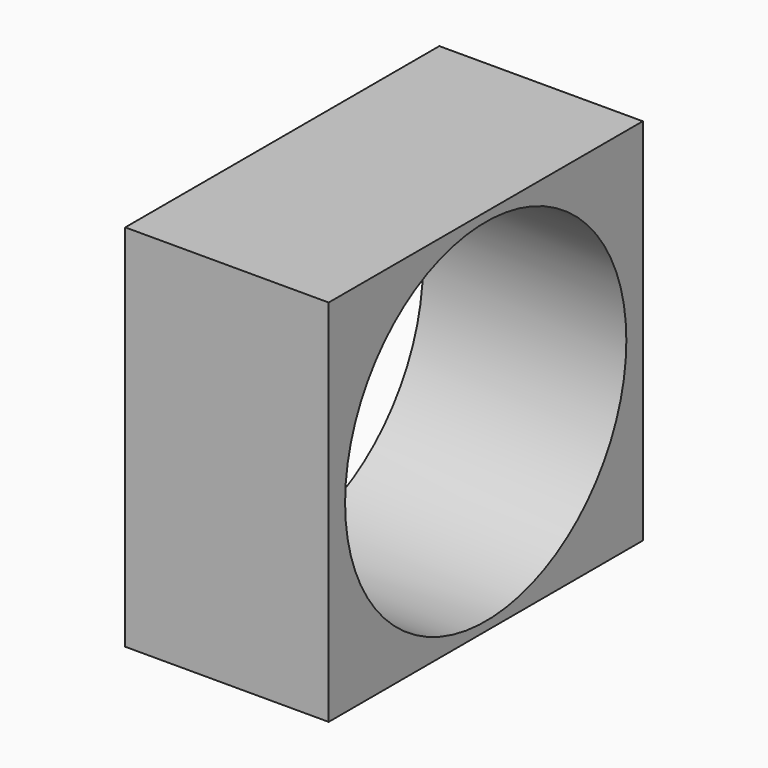
from build123d import *

# Parameters (mm, degrees)
F0_W     = 33.77
F0_H     = 31.76
F0_R     = 15.121081
F1_DEPTH = 17.5


with BuildPart() as f1:
    # F0 (on Right) → F1 (new body)
    with BuildSketch(Plane.YZ):
        Rectangle(F0_W, F0_H)
        Circle(F0_R, mode=Mode.SUBTRACT)
    extrude(amount=F1_DEPTH)


solid = f1.part
